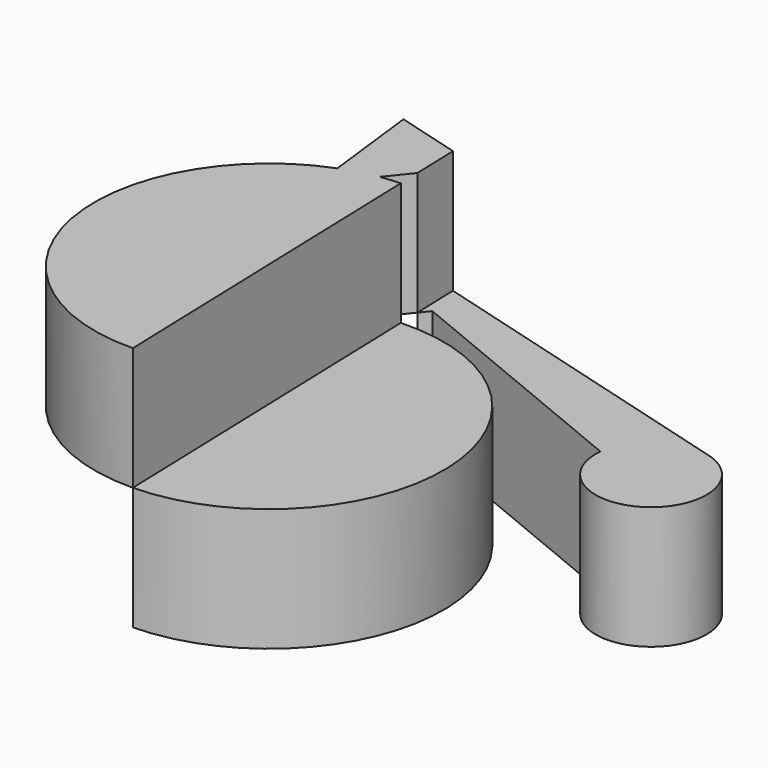
from build123d import *

# Parameters (mm, degrees)
F1_DEPTH = 25.4
F2_DEPTH = 25.4


with BuildPart() as f1:
    # F0 (on Top) → F1 (new body)
    with BuildSketch(Plane.XY):
        with BuildLine():
            Line((-52.0662106574, 47.5283302367), (-49.6778525412, 27.4661201984))
            ThreePointArc((-49.6778525412, 27.4661201984), (-72.2312541518, -13.0522247362), (-36.1835278661, -42.2233342469))
            Line((-36.1835278661, -42.2233342469), (-38.4303892276, 29.7885758953))
            ThreePointArc((-38.4303892276, 29.7885758953), (-40.477450655, 29.6408565433), (-42.5127781928, 29.3768048286))
            Line((-42.5127781928, 29.3768048286), (-38.5699796106, 34.2624478869))
            Line((-38.5699796106, 34.2624478869), (-38.8681502061, 43.8188159378))
            Line((-38.8681502061, 43.8188159378), (-52.0662106574, 47.5283302367))
        make_face()
    extrude(amount=F1_DEPTH)


with BuildPart() as f2:
    # F0 (on Top) → F2 (new body)
    with BuildSketch(Plane.XY):
        with BuildLine():
            Line((-38.4303892276, 29.7885758953), (-36.1835278661, -42.2233342469))
            ThreePointArc((-36.1835278661, -42.2233342469), (-0.853297783, -5.0799795193), (-38.4303892276, 29.7885758953))
        make_face()
    extrude(amount=-F2_DEPTH)


with BuildPart() as f2b:
    # F0 (on Top) → F2, piece 2 (new body)
    with BuildSketch(Plane.XY):
        with BuildLine():
            Line((28.6603011191, 24.838924408), (-38.8681502061, 43.8188159378))
            Line((-38.8681502061, 43.8188159378), (-38.5699796106, 34.2624478869))
            Line((-38.5699796106, 34.2624478869), (-37.0195545256, 36.1836273223))
            Line((-37.0195545256, 36.1836273223), (14.8078221828, 14.8078212515))
            ThreePointArc((14.8078221828, 14.8078212515), (32.921649635, 4.3738430542), (28.6603011191, 24.838924408))
        make_face()
    extrude(amount=-F2_DEPTH)


solid = Compound([f1.part, f2.part, f2b.part])
